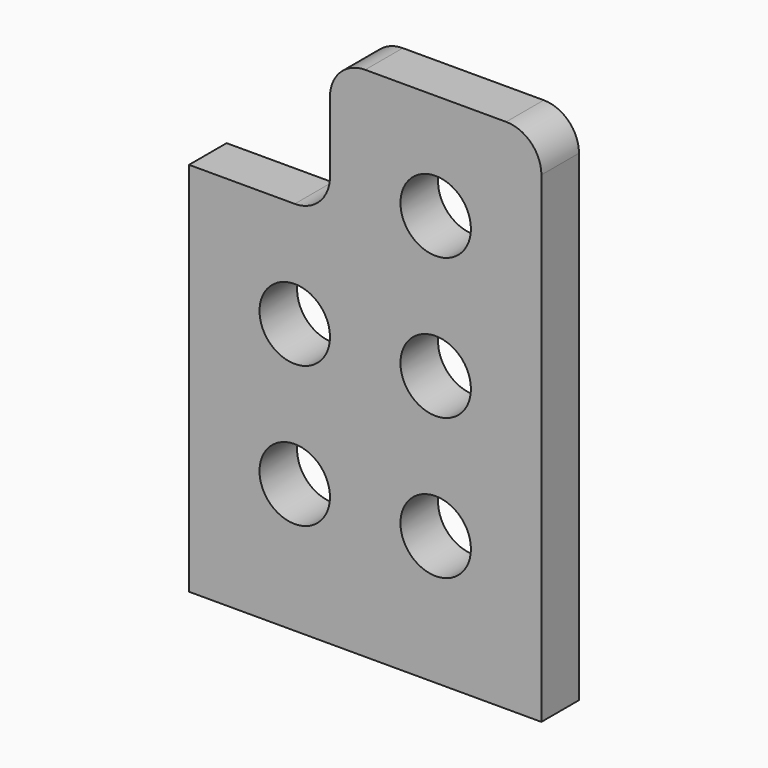
from build123d import *

# Parameters (mm, degrees)
F0_W      = 15
F0_H      = 15
F1_DEPTH  = 2
F2_R      = 1.5
F3_DEPTH  = 25
F4_W      = 9
F4_H      = 2
F5_DEPTH  = 6
F6_R      = 1.5
F7_DEPTH  = 25
F8_R      = 1.5
F9_W      = 15
F9_H      = 2
F10_DEPTH = 1


with BuildPart() as f1:
    # F0 (on Front) → F1 (new body)
    with BuildSketch(Plane.XZ):
        Rectangle(F0_W, F0_H)
    extrude(amount=F1_DEPTH)

    # F2 (on face) → F3 (cut)
    with BuildSketch(Plane.XZ.offset(2)):
        with Locations((3, 3)):
            Circle(F2_R)
        with Locations((-3, 3)):
            Circle(F2_R)
        with Locations((-3, -3)):
            Circle(F2_R)
        with Locations((3, -3)):
            Circle(F2_R)
    extrude(amount=-F3_DEPTH, mode=Mode.SUBTRACT)

    # F4 (on face) → F5 (join)
    with BuildSketch(Plane.XY.offset(7.5)):
        with Locations((3, -1)):
            Rectangle(F4_W, F4_H)
    extrude(amount=F5_DEPTH)

    # F6 (on face) → F7 (cut)
    with BuildSketch(Plane.XZ.offset(2)):
        with Locations((3, 9)):
            Circle(F6_R)
    extrude(amount=-F7_DEPTH, mode=Mode.SUBTRACT)

    # F8
    f8_edges = [f1.edges().sort_by_distance(p)[0] for p in [
        (7.5, -1, 13.5),
        (-1.5, -1, 13.5),
        (-1.5, -1, 7.5),
    ]]
    fillet(f8_edges, radius=F8_R)

    # F9 (on face) → F10 (join)
    with BuildSketch(Plane(origin=(0, 0, -7.5), x_dir=(1, 0, 0), z_dir=(0, 0, -1))):
        with Locations((0, 1)):
            Rectangle(F9_W, F9_H)
    extrude(amount=F10_DEPTH)


solid = f1.part
